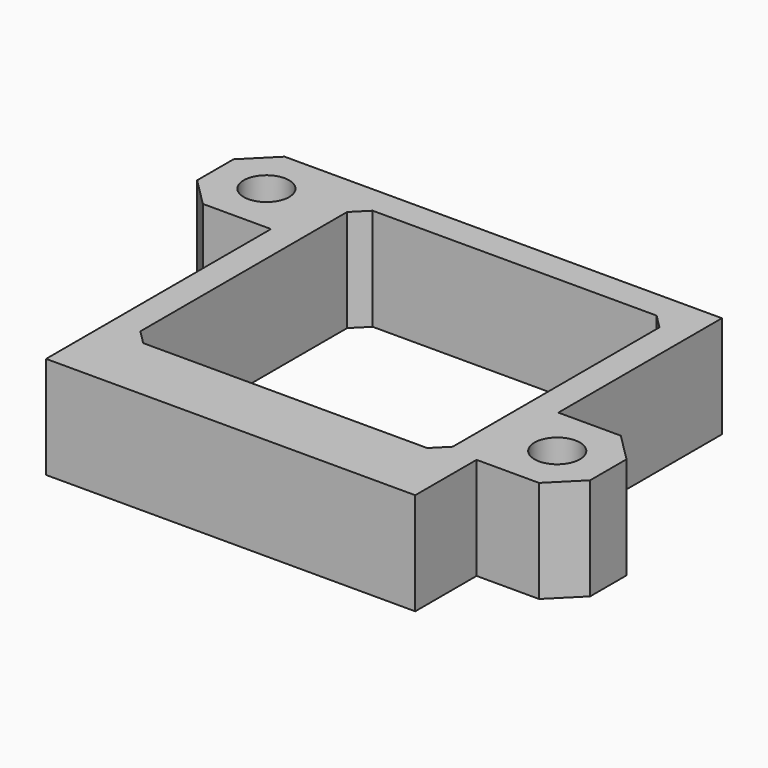
from build123d import *

# Parameters (mm, degrees)
F0_R     = 1.6
F0_W     = 22
F0_H     = 20.2
F1_DEPTH = 7.2
F2_SIZE  = 2
F3_SIZE  = 1


with BuildPart() as f1:
    # F0 (on Top) → F1 (new body)
    with BuildSketch(Plane.XY):
        Polygon((13, 12.1), (-19.8, 12.1), (-19.8, 4.9), (-13, 4.9), (-13, -14.9), (13, -14.9), (13, -10.1), (13, -9.5), (19.4, -9.5), (19.4, -2.3), (13, -2.3), align=None)
        with Locations((15.8, -5.9)):
            Circle(F0_R, mode=Mode.SUBTRACT)
        with Locations((-16.2, 8.5)):
            Circle(F0_R, mode=Mode.SUBTRACT)
        Rectangle(F0_W, F0_H, mode=Mode.SUBTRACT)
    extrude(amount=F1_DEPTH)

    # F2
    f2_edges = [f1.edges().sort_by_distance(p)[0] for p in [
        (-19.8, 4.9, 3.6),
        (-19.8, 12.1, 3.6),
        (19.4, -9.5, 3.6),
        (19.4, -2.3, 3.6),
    ]]
    chamfer(f2_edges, length=F2_SIZE)

    # F3
    f3_edges = [f1.edges().sort_by_distance(p)[0] for p in [
        (11, 10.1, 3.6),
        (-11, 10.1, 3.6),
        (-11, -10.1, 3.6),
        (11, -10.1, 3.6),
    ]]
    chamfer(f3_edges, length=F3_SIZE)


solid = f1.part
